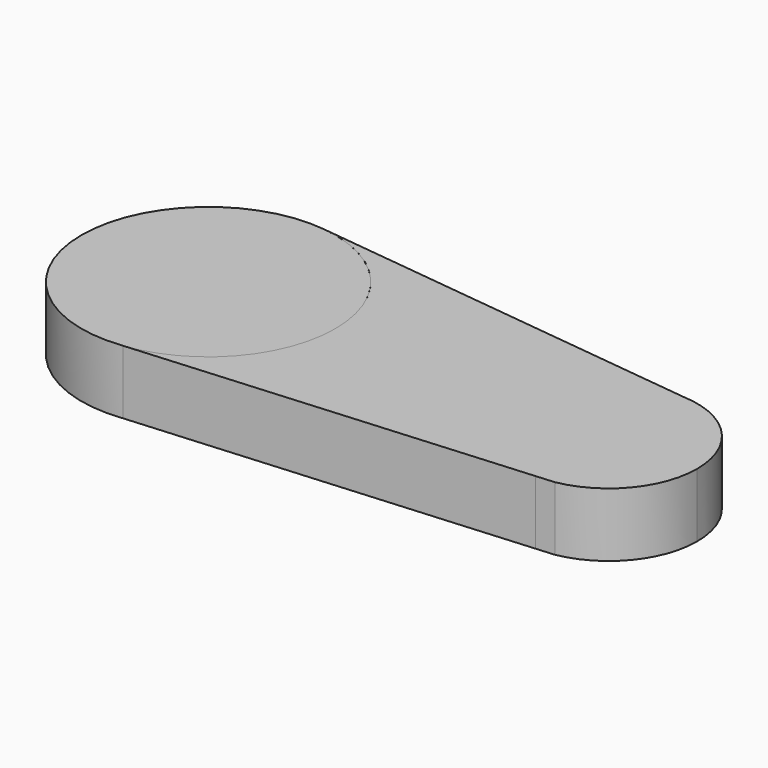
from build123d import *

# Parameters (mm, degrees)
F2_DEPTH = 25.4


with BuildPart() as f2:
    # F1 (on face) → F2 (new body)
    with BuildSketch(Plane.XY):
        with BuildLine():
            ThreePointArc((-0.8305999076, 39.2186160888), (-58.7168088374, -9.9436837338), (-2.2229706019, -60.6998769473))
            ThreePointArc((-2.2229706019, -60.6998769473), (29.4403518082, -44.0817604131), (42.120796827, -10.6462389231))
            ThreePointArc((42.120796827, -10.6462389231), (29.9025689064, 22.2601671661), (-0.8305999076, 39.2186160888))
        make_face()
    extrude(amount=F2_DEPTH)


with BuildPart() as f2b:
    # F0 (on Top) → F2, piece 2 (new body)
    with BuildSketch(Plane.XY):
        with BuildLine():
            ThreePointArc((-0.8305999076, 39.2186160888), (29.9025689064, 22.2601671661), (42.120796827, -10.6462389231))
            ThreePointArc((42.120796827, -10.6462389231), (29.4403518082, -44.0817604131), (-2.2229706019, -60.6998769473))
            Line((-2.2229706019, -60.6998769473), (152.4354503214, -49.1383132339))
            ThreePointArc((152.4354503214, -49.1383132339), (118.3673440556, -12.6507730888), (155.1294023125, 21.1209239828))
            Line((155.1294023125, 21.1209239828), (-0.8305999076, 39.2186160888))
        make_face()
        with BuildLine():
            ThreePointArc((188.6546971862, -13.9977931976), (178.9277804266, 10.2780677179), (155.1294023125, 21.1209239828))
            ThreePointArc((155.1294023125, 21.1209239828), (118.3673440556, -12.6507730888), (152.4354503214, -49.1383132339))
            Line((152.4354503214, -49.1383132339), (159.7736598102, -48.5897418982))
            ThreePointArc((159.7736598102, -48.5897418982), (180.4852599481, -36.5295332259), (188.6546971862, -13.9977931976))
        make_face()
    extrude(amount=F2_DEPTH)


solid = Compound([f2.part, f2b.part])
